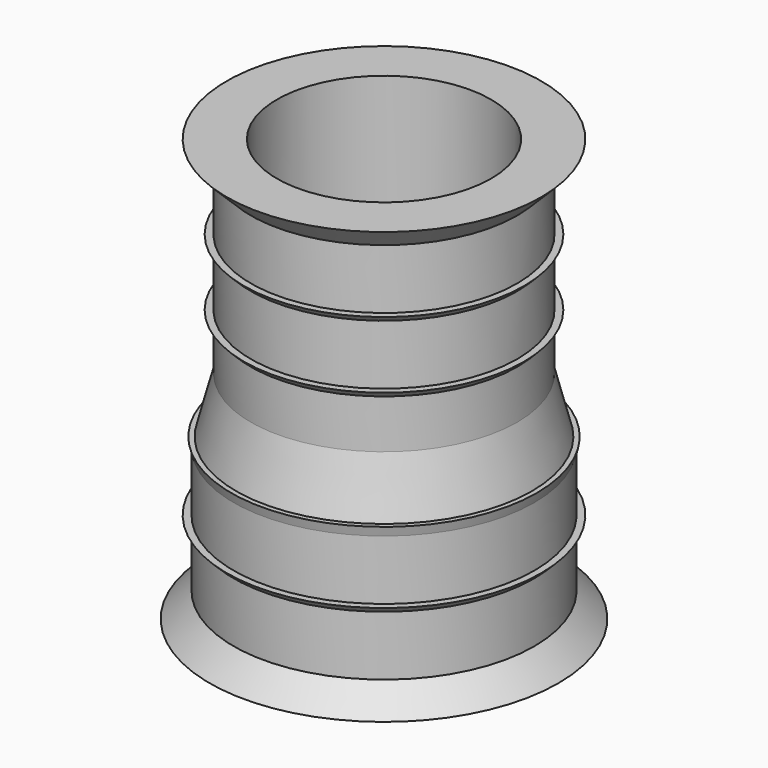
from build123d import *


with BuildPart() as part:
    # Sketch (on XZ_Plane of Origin) → Revolution (revolve)
    with BuildSketch(Plane.XZ):
        Polygon((19.4, 61.5), (19.4, 31.5), (21.9, 22), (21.9, 0), (18.1, 0), (18.1, 22), (15.6, 31.5), (15.6, 61.5), align=None)
    revolve(axis=Axis((0, 0, 0), (0, 0, 1)))

    # Sketch001 (on XZ_Plane of Origin) → Revolution001 (revolve)
    with BuildSketch(Plane.XZ):
        Polygon((19.4, 61.5), (22.9, 61.5), (19.4, 58), align=None)
        Polygon((21.9, 3.6), (25.4, 0), (21.9, 0), align=None)
        Polygon((21.9, 13.3), (22.9, 13.3), (21.9, 12.3), align=None)
        Polygon((21.540092, 23.36765), (21.9, 22), (22.259908, 23.36765), align=None)
        Polygon((19.4, 49.3), (20.4, 49.3), (19.4, 48.3), align=None)
        Polygon((19.4, 39.6), (20.4, 39.6), (19.4, 38.6), align=None)
    revolve(axis=Axis((0, 0, 0), (0, 0, 1)))


solid = part.part
